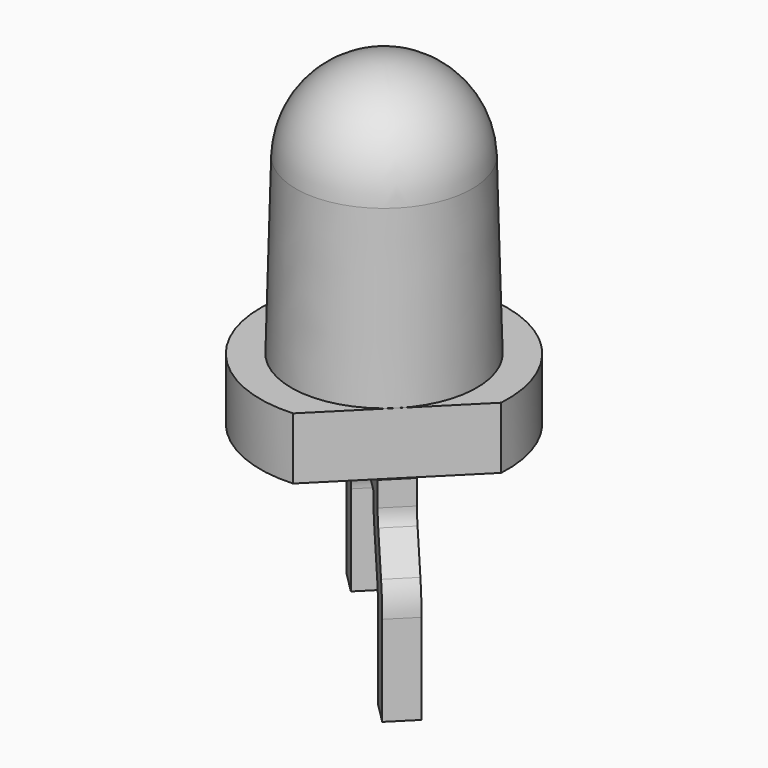
from build123d import *

# Parameters (mm, degrees)
PAD_DEPTH            = 1
PAD001_DEPTH         = 0.25
BODY_PLACEMENT_ANGLE = 45


with BuildPart() as part:
    # Sketch → Pad (new body)
    with BuildSketch(Plane.XY):
        with BuildLine():
            ThreePointArc((1.3228756555, -1.5), (0, 2), (-1.3228756555, -1.5))
            Line((-1.3228756555, -1.5), (1.3228756555, -1.5))
        make_face()
    extrude(amount=PAD_DEPTH)

    # Sketch001 → Revolution (revolve)
    with BuildSketch(Plane.YZ):
        with BuildLine():
            Line((0, 5.2), (0, 1))
            Line((0, 1), (-1.5, 1))
            Line((-1.5, 1), (-1.4264055883, 3.8104571954))
            ThreePointArc((0, 5.2), (-0.9956734038, 4.7951927894), (-1.4264055883, 3.8104571954))
        make_face()
    revolve(axis=Axis((0, 0, 0), (0, 0, 1)))

    # Sketch002 → Pad001 (join, symmetric)
    with BuildSketch(Plane.YZ):
        with BuildLine():
            Line((-0.325, 0), (-1.52, 0))
            Line((-1.52, 0), (-1.52, -0.4))
            ThreePointArc((-1.5869872981, -0.65), (-1.5370370869, -0.5294095226), (-1.52, -0.4))
            Line((-1.5869872981, -0.65), (-1.912076628, -1.2130712364))
            ThreePointArc((-1.912076628, -1.2130712364), (-2.0119770505, -1.4542521913), (-2.0460512242, -1.7130712364))
            Line((-2.0460512242, -1.7130712364), (-2.0460512242, -3.175))
            Line((-2.0460512242, -3.175), (-1.5460512242, -3.175))
            Line((-1.5460512242, -3.175), (-1.5460512242, -1.7130712364))
            ThreePointArc((-1.4790639261, -1.4630712364), (-1.5290141374, -1.5836617138), (-1.5460512242, -1.7130712364))
            Line((-1.1539745962, -0.9), (-1.4790639261, -1.4630712364))
            ThreePointArc((-1.1539745962, -0.9), (-1.0540741737, -0.6588190451), (-1.02, -0.4))
            Line((-0.325, -0.4), (-1.02, -0.4))
            Line((-0.325, 0), (-0.325, -0.4))
        make_face()
        with BuildLine():
            Line((0.325, 0), (1.52, 0))
            Line((1.52, 0), (1.52, -0.4))
            ThreePointArc((1.52, -0.4), (1.5370370869, -0.5294095226), (1.5869872981, -0.65))
            Line((1.5869872981, -0.65), (1.912076628, -1.2130712364))
            ThreePointArc((2.0460512242, -1.7130712364), (2.0119770505, -1.4542521913), (1.912076628, -1.2130712364))
            Line((2.0460512242, -1.7130712364), (2.0460512242, -3.175))
            Line((2.0460512242, -3.175), (1.5460512242, -3.175))
            Line((1.5460512242, -3.175), (1.5460512242, -1.7130712364))
            ThreePointArc((1.5460512242, -1.7130712364), (1.5290141374, -1.5836617138), (1.4790639261, -1.4630712364))
            Line((1.1539745962, -0.9), (1.4790639261, -1.4630712364))
            ThreePointArc((1.02, -0.4), (1.0540741737, -0.6588190451), (1.1539745962, -0.9))
            Line((0.325, -0.4), (1.02, -0.4))
            Line((0.325, 0), (0.325, -0.4))
        make_face()
    extrude(amount=PAD001_DEPTH, both=True)


with BuildPart() as part_1:
    # Body placement: moved
    add(part.part.moved(Location((-3.81, 0, 3.575))).rotate(Axis((-3.81, 0, 3.575), (0, 0, 1)), BODY_PLACEMENT_ANGLE))


solid = part_1.part
